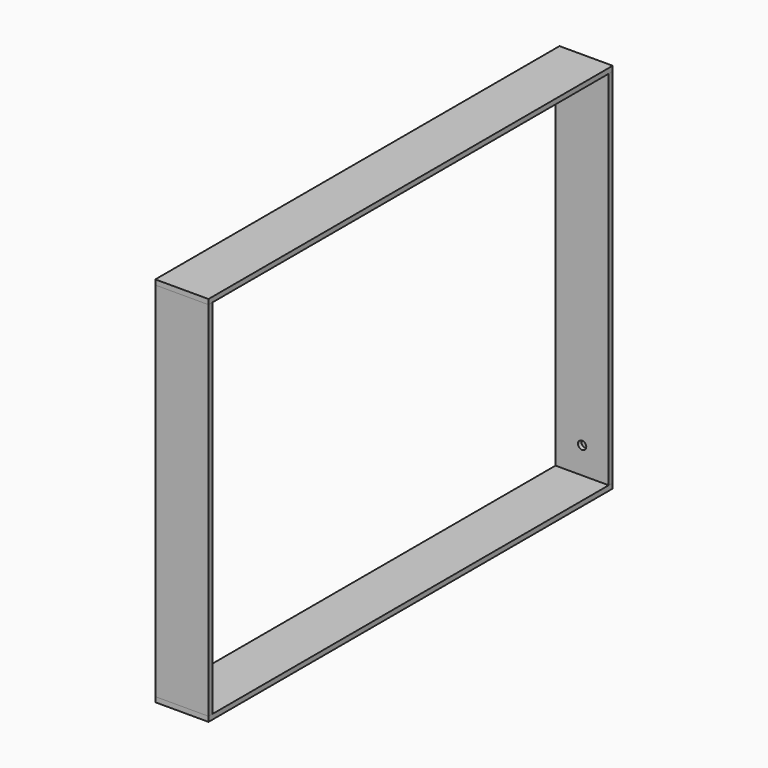
from build123d import *

# Parameters (mm, degrees)
F0_W     = 1930.4
F0_H     = 19.05
F1_DEPTH = 203.2
F2_W     = 19.05
F2_H     = 1384.3
F3_DEPTH = 203.2
F4_R     = 15.875
F5_DEPTH = 15.875
F6_R     = 15.875
F7_DEPTH = 15.875


with BuildPart() as f1:
    # F0 (on Right) → F1 (new body)
    with BuildSketch(Plane.YZ):
        with Locations((0, 9.525)):
            Rectangle(F0_W, F0_H)
        with Locations((0, 1412.875)):
            Rectangle(F0_W, F0_H)
    extrude(amount=F1_DEPTH)


with BuildPart() as f3:
    # F2 (on Right) → F3 (new body, through all)
    with BuildSketch(Plane.YZ):
        with Locations((-955.675, 711.2)):
            Rectangle(F2_W, F2_H)
        with Locations((955.675, 711.2)):
            Rectangle(F2_W, F2_H)
    extrude(amount=F3_DEPTH)

    # F4 (on face) → F5 (cut)
    with BuildSketch(Plane(origin=(0, -946.15, 0), x_dir=(-1, 0, 0), z_dir=(0, 1, 0))):
        with Locations((-101.6, 120.65)):
            Circle(F4_R)
    extrude(amount=-F5_DEPTH, mode=Mode.SUBTRACT)

    # F6 (on face) → F7 (cut)
    with BuildSketch(Plane.XZ.offset(-946.15)):
        with Locations((101.6, 120.65)):
            Circle(F6_R)
    extrude(amount=-F7_DEPTH, mode=Mode.SUBTRACT)


solid = Compound([f1.part, f3.part])
